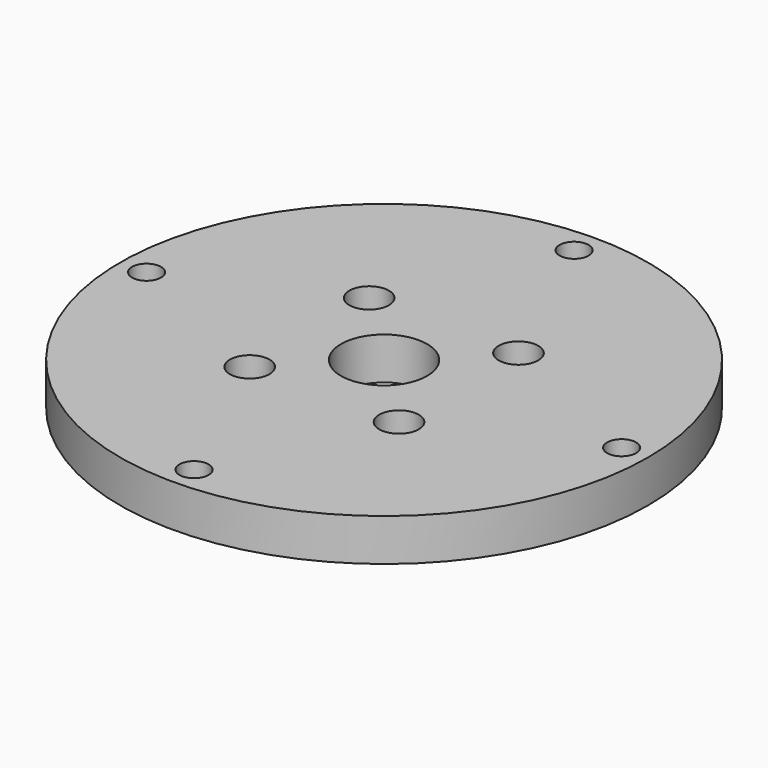
from build123d import *

# Parameters (mm, degrees)
F0_R     = 150
F0_R_2   = 11.25
F0_R_3   = 8.25
F0_R_4   = 24.5
F1_DEPTH = 24


with BuildPart() as f1:
    # F0 (on Top) → F1 (new body)
    with BuildSketch(Plane.XY):
        Circle(F0_R)
        with Locations((-42.426407, -42.426407)):
            Circle(F0_R_2, mode=Mode.SUBTRACT)
        with Locations((0, -135)):
            Circle(F0_R_3, mode=Mode.SUBTRACT)
        with Locations((42.426407, -42.426407)):
            Circle(F0_R_2, mode=Mode.SUBTRACT)
        with Locations((-135, 0)):
            Circle(F0_R_3, mode=Mode.SUBTRACT)
        with Locations((-42.426407, 42.426407)):
            Circle(F0_R_2, mode=Mode.SUBTRACT)
        Circle(F0_R_4, mode=Mode.SUBTRACT)
        with Locations((42.426407, 42.426407)):
            Circle(F0_R_2, mode=Mode.SUBTRACT)
        with Locations((135, 0)):
            Circle(F0_R_3, mode=Mode.SUBTRACT)
        with Locations((0, 135)):
            Circle(F0_R_3, mode=Mode.SUBTRACT)
    extrude(amount=-F1_DEPTH)


solid = f1.part
